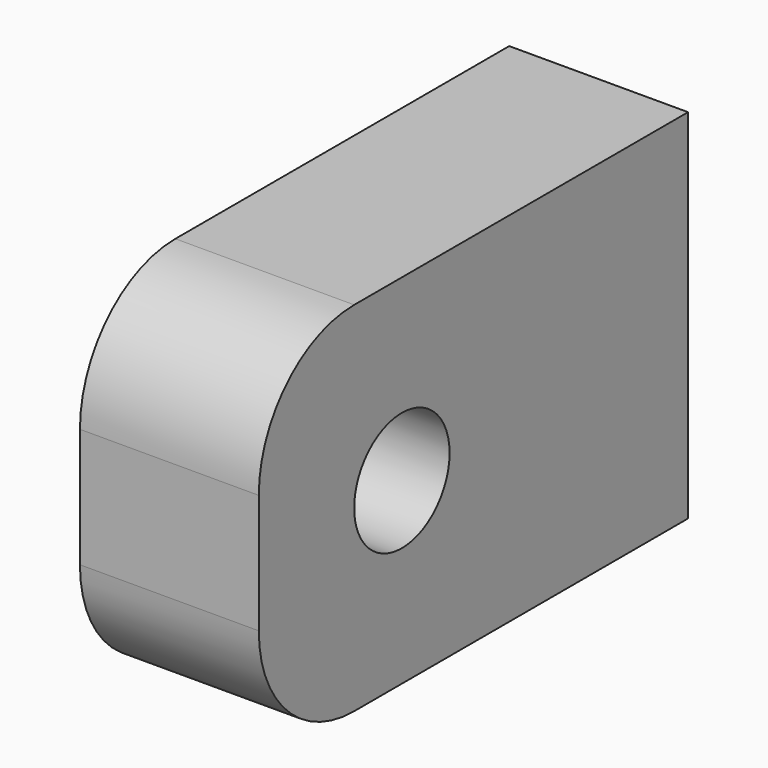
from build123d import *

# Parameters (mm, degrees)
F0_W     = 57.15
F0_H     = 38.1
F0_R     = 6.35
F1_DEPTH = 19.05
F2_R     = 12.7


with BuildPart() as f1:
    # F0 (on Right) → F1 (new body)
    with BuildSketch(Plane.YZ):
        with Locations((28.575, 19.05)):
            Rectangle(F0_W, F0_H)
        with Locations((19.05, 19.05)):
            Circle(F0_R, mode=Mode.SUBTRACT)
    extrude(amount=-F1_DEPTH)

    # F2
    f2_edges = [f1.edges().sort_by_distance(p)[0] for p in [
        (-9.525, 0, 0),
        (-9.525, 0, 38.1),
    ]]
    fillet(f2_edges, radius=F2_R)


solid = f1.part
